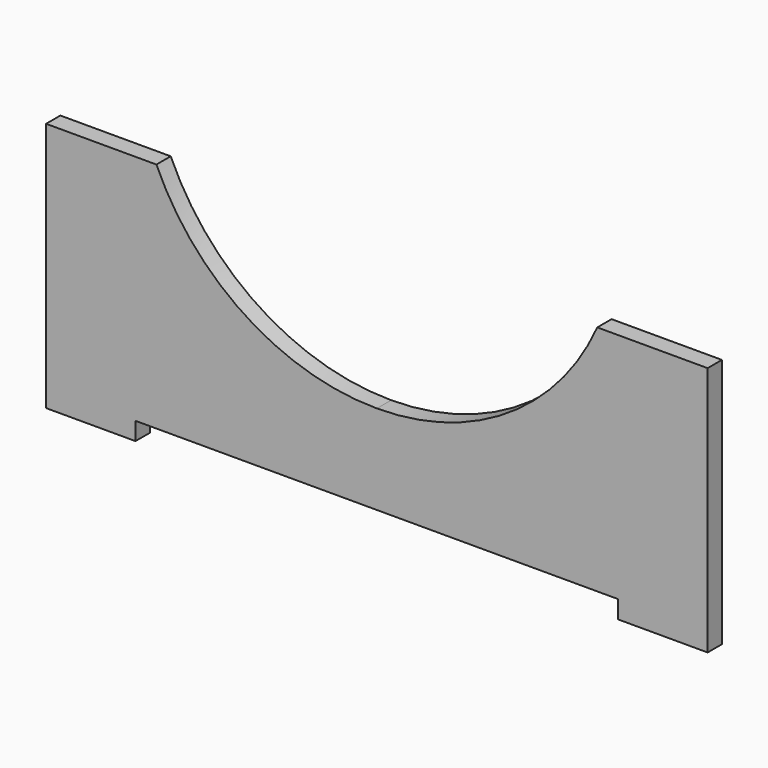
from build123d import *

# Parameters (mm, degrees)
F1_DEPTH = 10


with BuildPart() as f1:
    # F0 (on Front) → F1 (new body)
    with BuildSketch(Plane.XZ):
        with BuildLine():
            Line((-135, 10), (0, 10))
            Line((0, 10), (0, 60))
            ThreePointArc((0, 60), (-73.4846922835, 81.7524834709), (-123.2882800594, 140))
            Line((-123.2882800594, 140), (-185, 140))
            Line((-185, 140), (-185, 0))
            Line((-185, 0), (-135, 0))
            Line((-135, 0), (-135, 10))
        make_face()
        with BuildLine():
            Line((135, 10), (135, 0))
            Line((135, 0), (185, 0))
            Line((185, 0), (185, 140))
            Line((185, 140), (123.2882800594, 140))
            ThreePointArc((123.2882800594, 140), (73.4846922835, 81.7524834709), (0, 60))
            Line((0, 60), (0, 10))
            Line((0, 10), (135, 10))
        make_face()
    extrude(amount=F1_DEPTH)


solid = f1.part
